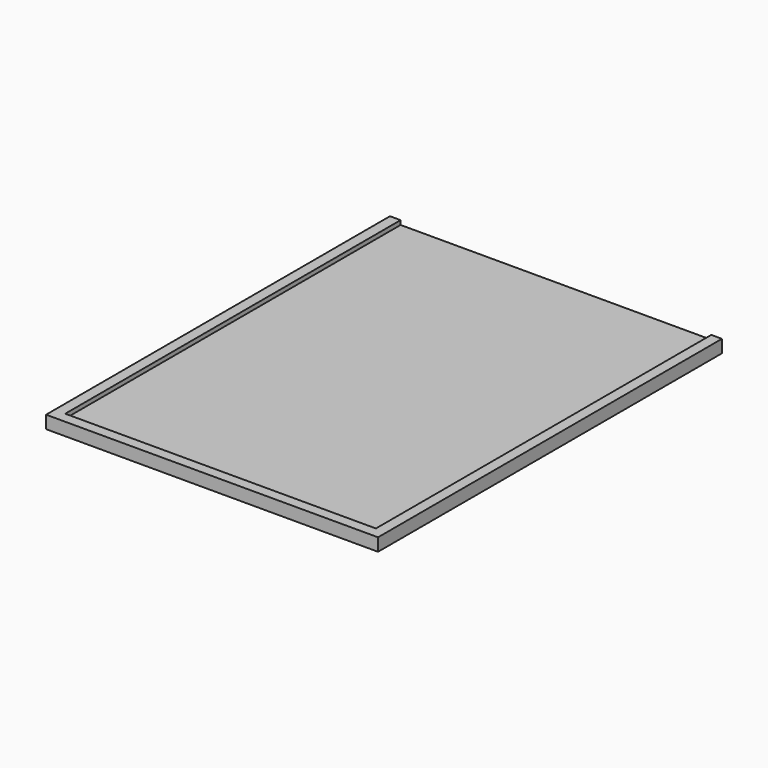
from build123d import *

# Parameters (mm, degrees)
SKETCH_W     = 156
SKETCH_H     = 202
PAD_DEPTH    = 4
PAD001_DEPTH = 2


with BuildPart() as part:
    # Sketch → Pad (new body)
    with BuildSketch(Plane.XY):
        with Locations((78, 101)):
            Rectangle(SKETCH_W, SKETCH_H)
    extrude(amount=PAD_DEPTH)

    # Sketch001 → Pad001 (new body)
    with BuildSketch(Plane.XY.offset(4)):
        Polygon((0, 202), (5, 202), (5, 5), (151, 5), (151, 202), (156, 202), (156, 0), (0, 0), align=None)
    extrude(amount=PAD001_DEPTH)


solid = part.part
